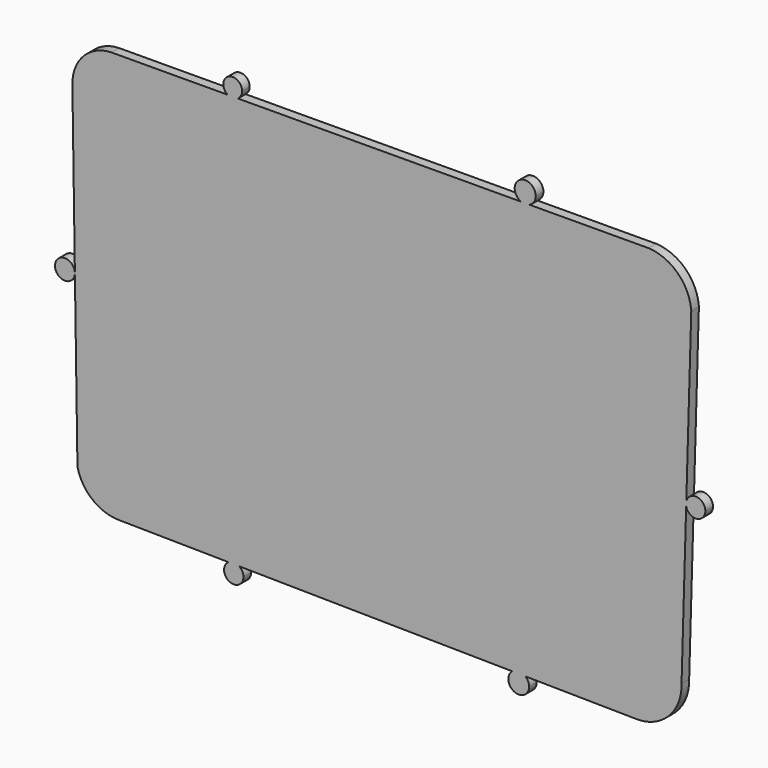
from build123d import *

# Parameters (mm, degrees)
F1_DEPTH = 3.175


with BuildPart() as f1:
    # F0 (on Front) → F1 (new body)
    with BuildSketch(Plane.XZ):
        with BuildLine():
            ThreePointArc((-72.0813978251, -27.4376207332), (-78.7052257702, -27.5126605293), (-72.0810200118, -27.4876467884))
            ThreePointArc((-72.0810200118, -27.4876467884), (-72.0811144665, -27.4626330474), (-72.0813978251, -27.4376207332))
        make_face()
    extrude(amount=F1_DEPTH)


with BuildPart() as f1b:
    # F0 (on Front) → F1, piece 2 (new body)
    with BuildSketch(Plane.XZ):
        with BuildLine():
            Line((-72.58165553, 5.6840192604), (-72.0813347436, -27.4376197803))
            Line((-72.0813347436, -27.4376197803), (-71.2274983525, -83.9622765779))
            ThreePointArc((-71.2274983525, -83.9622765779), (-66.174797872, -92.0332585005), (-57.1672841907, -95.1211750507))
            Line((-57.1672841907, -95.1211750507), (-20.9465985898, -95.604115342))
            ThreePointArc((-20.9465985898, -95.604115342), (-19.1250785613, -95.0716041918), (-17.3184037726, -95.6524910542))
            Line((-17.3184037726, -95.6524910542), (73.5187883853, -96.8636481405))
            ThreePointArc((73.5187883853, -96.8636481405), (75.7708843803, -96.0686031472), (78.0009824441, -96.9234104578))
            Line((78.0009824441, -96.9234104578), (114.2204999924, -97.406335175))
            ThreePointArc((114.2204999924, -97.406335175), (125.4321668109, -93.252311576), (129.9427449703, -82.1792781353))
            Line((129.9427449703, -82.1792781353), (131.4846607719, -29.6203363645))
            ThreePointArc((131.4846607719, -29.6203363645), (131.416724127, -28.8597564391), (131.5291316547, -28.1044672505))
            Line((131.5291316547, -28.1044672505), (133.1816464663, 28.2244384289))
            ThreePointArc((133.1816464663, 28.2244384289), (128.6809778737, 37.7785855309), (118.9824864268, 41.9591367245))
            Line((118.9824864268, 41.9591367245), (79.3044793644, 41.7823650363))
            ThreePointArc((79.3044793644, 41.7823650363), (77.9051470001, 41.484711047), (76.5032180467, 41.7698849817))
            Line((76.5032180467, 41.7698849817), (-17.7993065024, 41.3497525784))
            ThreePointArc((-17.7993065024, 41.3497525784), (-19.510103519, 40.8315099451), (-21.2254502351, 41.3344885756))
            Line((-21.2254502351, 41.3344885756), (-59.8661825061, 41.1623381078))
            ThreePointArc((-59.8661825061, 41.1623381078), (-69.2722996675, 36.9930989982), (-72.9092136025, 27.3686274886))
            Line((-72.9092136025, 27.3686274886), (-72.58165553, 5.6840192604))
        make_face()
        with BuildLine():
            Line((-17.3184037726, -95.6524910542), (-20.9465985898, -95.604115342))
            ThreePointArc((-20.9465985898, -95.604115342), (-20.702691353, -101.1529565889), (-15.9337921399, -98.3057245612))
            ThreePointArc((-15.9337921399, -98.3057245612), (-16.3007630207, -96.8093291074), (-17.3184037726, -95.6524910542))
        make_face()
        with BuildLine():
            ThreePointArc((-17.3184037726, -95.6524910542), (-19.1250785613, -95.0716041918), (-20.9465985898, -95.604115342))
            Line((-20.9465985898, -95.604115342), (-17.3184037726, -95.6524910542))
        make_face()
        with BuildLine():
            Line((-17.7993065024, 41.3497525784), (-21.2254502351, 41.3344885756))
            ThreePointArc((-21.2254502351, 41.3344885756), (-19.510103519, 40.8315099451), (-17.7993065024, 41.3497525784))
        make_face()
        with BuildLine():
            ThreePointArc((-16.3950739645, 43.9604483545), (-21.0184998393, 46.7094572521), (-21.2254502351, 41.3344885756))
            Line((-21.2254502351, 41.3344885756), (-17.7993065024, 41.3497525784))
            ThreePointArc((-17.7993065024, 41.3497525784), (-16.7684038401, 42.4782539125), (-16.3950739645, 43.9604483545))
        make_face()
        with BuildLine():
            Line((78.0009824441, -96.9234104578), (73.5187883853, -96.8636481405))
            ThreePointArc((73.5187883853, -96.8636481405), (74.2543118421, -102.6539408987), (79.1817873053, -99.5252877474))
            ThreePointArc((79.1817873053, -99.5252877474), (78.8727751662, -98.0966462991), (78.0009824441, -96.9234104578))
        make_face()
        with BuildLine():
            ThreePointArc((78.0009824441, -96.9234104578), (75.7708843803, -96.0686031472), (73.5187883853, -96.8636481405))
            Line((73.5187883853, -96.8636481405), (78.0009824441, -96.9234104578))
        make_face()
        with BuildLine():
            Line((79.3044793644, 41.7823650363), (76.5032180467, 41.7698849817))
            ThreePointArc((76.5032180467, 41.7698849817), (77.9051470001, 41.484711047), (79.3044793644, 41.7823650363))
        make_face()
        with BuildLine():
            ThreePointArc((81.4011880312, 44.9963621795), (75.9576966307, 47.928949138), (76.5032180467, 41.7698849817))
            Line((76.5032180467, 41.7698849817), (79.3044793644, 41.7823650363))
            ThreePointArc((79.3044793644, 41.7823650363), (80.8306663118, 43.0776409341), (81.4011880312, 44.9963621795))
        make_face()
        with BuildLine():
            Line((131.5291316547, -28.1044672505), (131.4846607719, -29.6203363645))
            ThreePointArc((131.4846607719, -29.6203363645), (134.9818943875, -32.1690062235), (137.879046871, -28.9545282722))
            ThreePointArc((137.879046871, -28.9545282722), (135.0760126741, -25.7512476493), (131.5291316547, -28.1044672505))
        make_face()
        with BuildLine():
            ThreePointArc((131.5291316547, -28.1044672505), (131.416724127, -28.8597564391), (131.4846607719, -29.6203363645))
            Line((131.4846607719, -29.6203363645), (131.5291316547, -28.1044672505))
        make_face()
    extrude(amount=F1_DEPTH)


solid = Compound([f1.part, f1b.part])
